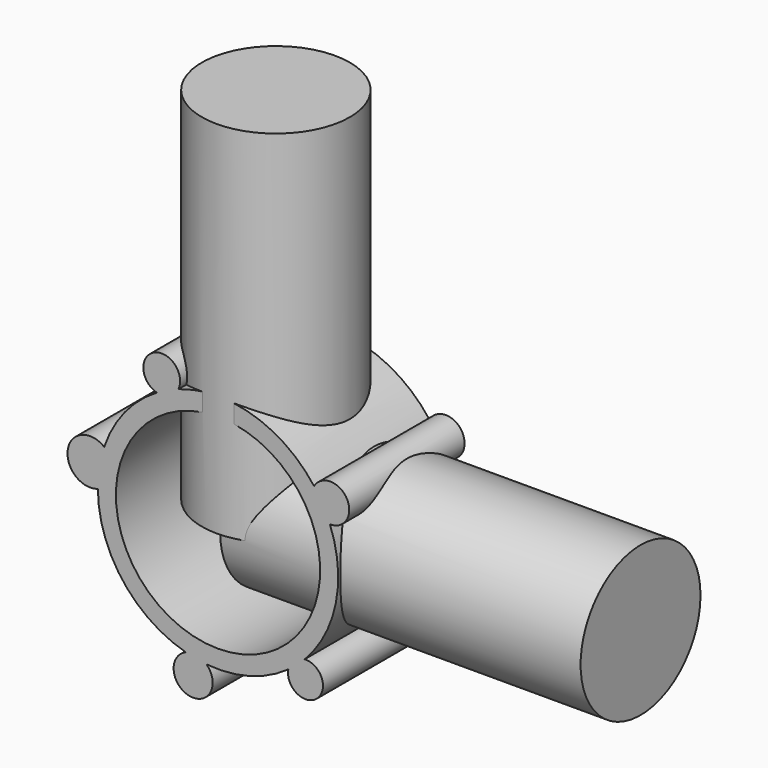
from build123d import *

# Parameters (mm, degrees)
F0_R     = 127
F0_R_2   = 107.95
F1_DEPTH = 152.4
F2_R     = 19.954966
F2_R_2   = 18.476032
F2_R_3   = 19.434265
F2_R_4   = 23.919366
F2_R_5   = 20.632539
F3_DEPTH = 152.4
F4_R     = 78.21073
F5_DEPTH = 381
F6_R     = 79.183357
F7_DEPTH = 381


with BuildPart() as f1:
    # F0 (on Front) → F1 (new body)
    with BuildSketch(Plane.XZ):
        Circle(F0_R)
        Circle(F0_R_2, mode=Mode.SUBTRACT)
    extrude(amount=F1_DEPTH)

    # F2 (on Front) → F3 (join)
    with BuildSketch(Plane.XZ):
        with Locations((118.736863, 66.271551)):
            Circle(F2_R)
        with Locations((92.451945, -106.402084)):
            Circle(F2_R_2)
        with Locations((-59.5061, 128.023103)):
            Circle(F2_R_3)
        with Locations((-135.185078, 21.994248)):
            Circle(F2_R_4)
        with Locations((-26.289392, -141.47146)):
            Circle(F2_R_5)
    extrude(amount=F3_DEPTH)

    # F4 (on Top) → F5 (join)
    with BuildSketch(Plane.XY):
        with Locations((0, -75.98383)):
            Circle(F4_R)
    extrude(amount=F5_DEPTH)

    # F6 (on Right) → F7 (join)
    with BuildSketch(Plane.YZ):
        with Locations((-70.443042, 0)):
            Circle(F6_R)
    extrude(amount=F7_DEPTH)


solid = f1.part
